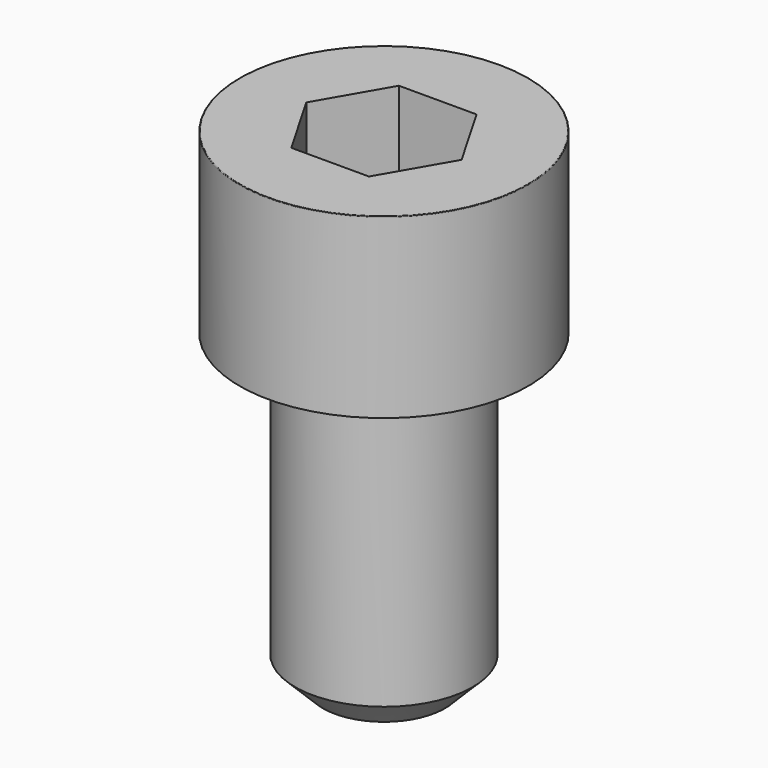
from build123d import *

# Parameters (mm, degrees)
POCKET_DEPTH = 6.06


with BuildPart() as part:
    # Sketch → Revolve (revolve)
    with BuildSketch(Plane.YZ):
        with BuildLine():
            Line((3.999, 0), (6.5, 0))
            Line((6.5, 0), (6.5, 7.97229))
            ThreePointArc((6.5, 7.97229), (6.491884, 7.991884), (6.47229, 8))
            Line((6.47229, 8), (0, 8))
            Line((0, -14), (0, 8))
            Line((2.75, -14), (0, -14))
            Line((4, -12.75), (2.75, -14))
            Line((4, -0.2), (4, -12.75))
            Line((3.999, 0), (4, -0.2))
        make_face()
    revolve(axis=Axis((0, 0, 0), (0, 0, 1)))

    # Sketch001 → Pocket (cut)
    with BuildSketch(Plane.XY.offset(8)):
        Polygon((3.498743, 0), (1.749371, 3.03), (-1.749371, 3.03), (-3.498743, 0), (-1.749371, -3.03), (1.749371, -3.03), align=None)
    extrude(amount=-POCKET_DEPTH, mode=Mode.SUBTRACT)


solid = part.part
